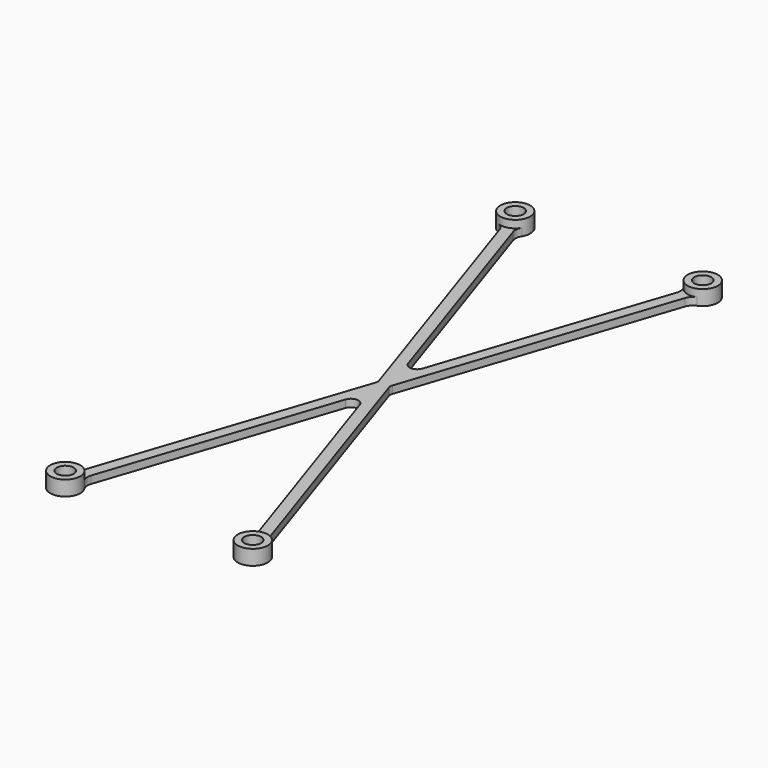
from build123d import *

# Parameters (mm, degrees)
F0_R     = 4
F0_R_2   = 2.25
F1_DEPTH = 4
F3_DEPTH = 2
F5_R     = 2
F6_R     = 3


with BuildPart() as f1:
    # F0 (on Top) → F1 (new body)
    with BuildSketch(Plane.XY):
        with Locations((-25, 75)):
            Circle(F0_R)
        with Locations((-25, 75)):
            Circle(F0_R_2, mode=Mode.SUBTRACT)
    extrude(amount=F1_DEPTH)


with BuildPart() as f1b:
    # F0 (on Top) → F1, piece 2 (new body)
    with BuildSketch(Plane.XY):
        with Locations((25, 75)):
            Circle(F0_R)
        with Locations((25, 75)):
            Circle(F0_R_2, mode=Mode.SUBTRACT)
    extrude(amount=F1_DEPTH)


with BuildPart() as f1c:
    # F0 (on Top) → F1, piece 3 (new body)
    with BuildSketch(Plane.XY):
        with Locations((-25, -75)):
            Circle(F0_R)
        with Locations((-25, -75)):
            Circle(F0_R_2, mode=Mode.SUBTRACT)
    extrude(amount=F1_DEPTH)


with BuildPart() as f1d:
    # F0 (on Top) → F1, piece 4 (new body)
    with BuildSketch(Plane.XY):
        with Locations((25, -75)):
            Circle(F0_R)
        with Locations((25, -75)):
            Circle(F0_R_2, mode=Mode.SUBTRACT)
    extrude(amount=F1_DEPTH)


with BuildPart() as f3:
    # F2 (on Top) → F3 (new body)
    with BuildSketch(Plane.XY):
        Polygon((-22.6102852702, 72.5742723009), (-25.4563351644, 71.6255890028), (-1.5811388301, 0), (0, 4.7434164903), align=None)
        Polygon((0, 4.7434164903), (-1.5811388301, 0), (0, -4.7434164903), (1.5811388301, 0), align=None)
        Polygon((0, -4.7434164903), (-1.5811388301, 0), (-25.4563351644, -71.6255890028), (-22.6102852702, -72.5742723009), align=None)
        Polygon((1.5811388301, 0), (0, -4.7434164903), (22.6102852702, -72.5742723009), (25.4563351644, -71.6255890028), align=None)
        Polygon((22.6102852702, 72.5742723009), (0, 4.7434164903), (1.5811388301, 0), (25.4563351644, 71.6255890028), align=None)
    extrude(amount=F3_DEPTH)

    # F4: union F1d, F1c, F1b, F1
    add(f1d.part)
    add(f1c.part)
    add(f1b.part)
    add(f1.part)

    # F5
    f5_edges = [f3.edges().sort_by_distance(p)[0] for p in [
        (0, 4.743416, 1),
        (-1.581139, 0, 1),
        (0, -4.743416, 1),
        (1.581139, 0, 1),
    ]]
    fillet(f5_edges, radius=F5_R)

    # F6
    f6_edges = [f3.edges().sort_by_distance(p)[0] for p in [
        (-25.250421, 71.007847, 1),
        (-22.404371, 71.95653, 1),
        (25.250421, 71.007847, 1),
        (-22.404371, -71.95653, 1),
        (25.250421, -71.007847, 1),
        (22.404371, -71.95653, 1),
        (-25.250421, -71.007847, 1),
        (22.404371, 71.95653, 1),
    ]]
    fillet(f6_edges, radius=F6_R)


solid = f3.part
